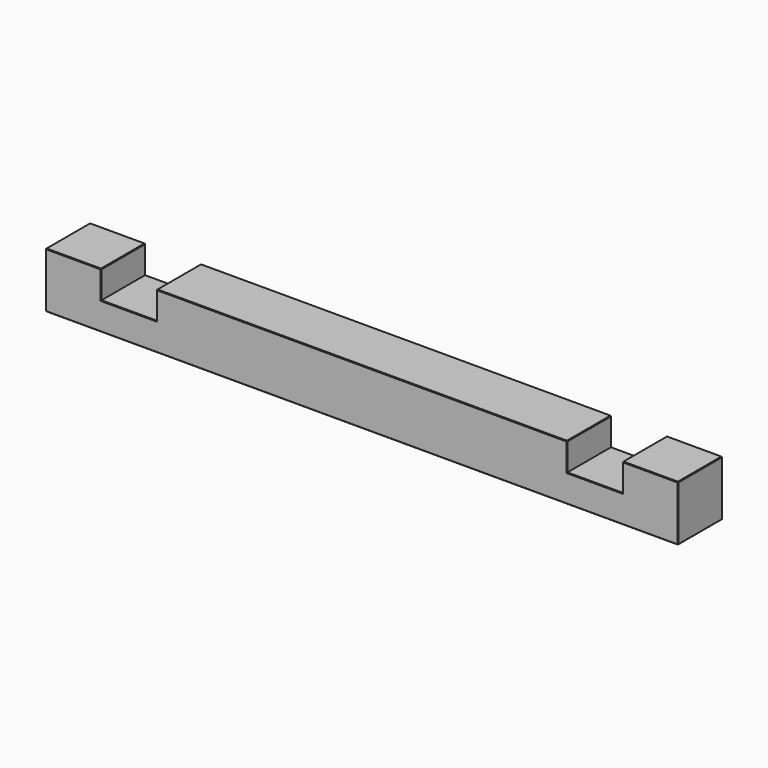
from build123d import *

# Parameters (mm, degrees)
F1_DEPTH = 10
F2_SIZE  = 0.1


with BuildPart() as f1:
    # F0 (on Front) → F1 (new body)
    with BuildSketch(Plane.XZ):
        Polygon((-36.640626, 10), (-46.640626, 10), (-46.640626, 0), (67.359374, 0), (67.359374, 10), (57.359374, 10), (57.359374, 5), (47.359374, 5), (47.359374, 10), (-26.640626, 10), (-26.640626, 5), (-36.640626, 5), align=None)
    extrude(amount=F1_DEPTH)

    # F2
    f2_edges = [f1.edges().sort_by_distance(p)[0] for p in [
        (10.359374, -10, 10),
        (10.359374, 0, 10),
        (47.359374, -5, 10),
        (47.359374, -10, 7.5),
        (47.359374, 0, 7.5),
        (57.359374, -5, 10),
        (57.359374, -10, 7.5),
        (-26.640626, -10, 7.5),
        (-31.640626, -10, 5),
        (-36.640626, -10, 7.5),
        (-41.640626, -10, 10),
        (-46.640626, -10, 5),
        (10.359374, -10, 0),
        (67.359374, -10, 5),
        (62.359374, -10, 10),
        (52.359374, -10, 5),
        (67.359374, -5, 10),
        (62.359374, 0, 10),
        (67.359374, -5, 0),
        (67.359374, 0, 5),
        (-36.640626, -5, 10),
        (-46.640626, -5, 10),
        (-41.640626, 0, 10),
        (-46.640626, -5, 0),
        (-46.640626, 0, 5),
        (-26.640626, 0, 7.5),
        (-31.640626, 0, 5),
        (-36.640626, 0, 7.5),
        (10.359374, 0, 0),
        (57.359374, 0, 7.5),
        (52.359374, 0, 5),
        (-26.640626, -5, 10),
    ]]
    chamfer(f2_edges, length=F2_SIZE)


solid = f1.part
